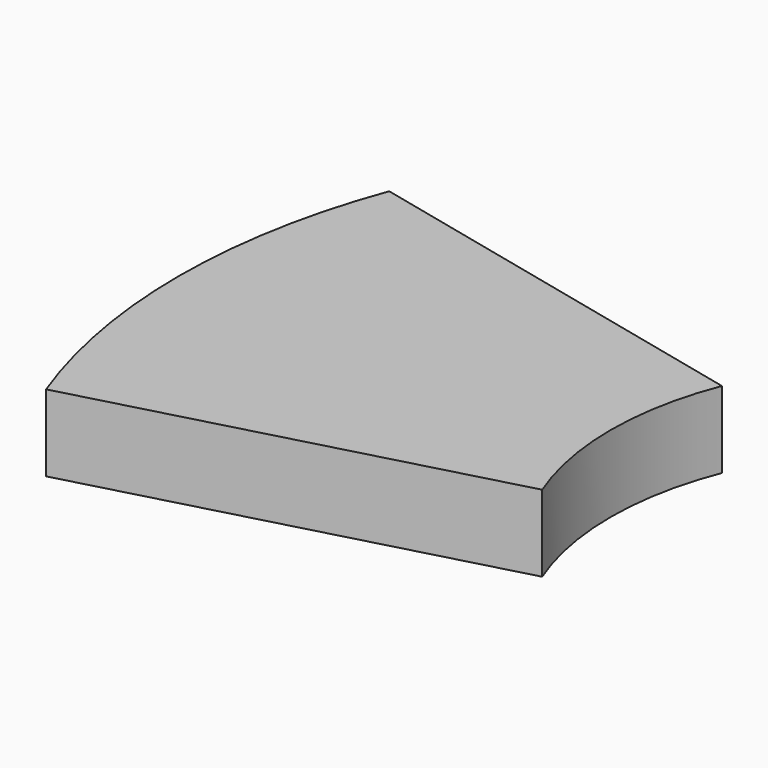
from build123d import *

# Parameters (mm, degrees)
F1_DEPTH = 19.05


with BuildPart() as f1:
    # F0 (on Top) → F1 (new body)
    with BuildSketch(Plane.XY):
        with BuildLine():
            Line((-57.260847, 79.467283), (-57.260847, 0))
            Line((-57.260847, 0), (44.339153, 0))
            ThreePointArc((44.339153, 0), (39.032004, 27.94), (44.339153, 55.88))
            Line((44.339153, 55.88), (-57.260847, 79.467283))
        make_face()
        Polygon((44.339153, 0), (-57.260847, 0), (-57.260847, -27.212717), align=None)
        with BuildLine():
            Line((-57.260847, -27.212717), (-57.260847, 0))
            Line((-57.260847, 0), (-57.260847, 79.467283))
            ThreePointArc((-57.260847, 79.467283), (-66.900193, 26.127283), (-57.260847, -27.212717))
        make_face()
    extrude(amount=F1_DEPTH)


solid = f1.part
